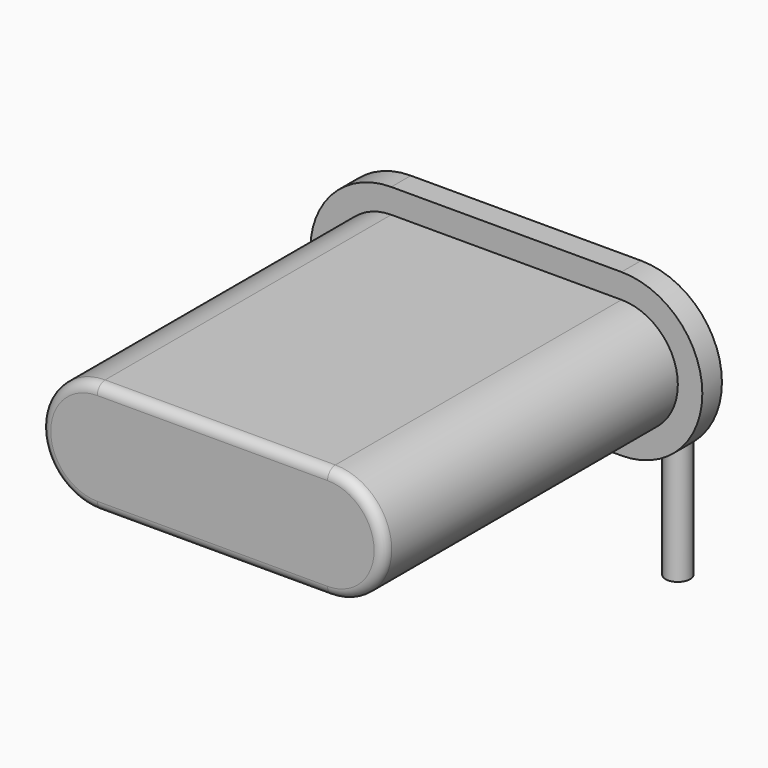
from build123d import *

# Parameters (mm, degrees)
PAD_DEPTH    = 0.5
PAD001_DEPTH = 8
FILLET_R     = 0.2
SKETCH_R     = 0.25
SKETCH002_R  = 0.25


with BuildPart() as pad:
    # Sketch004 → Pad (new body)
    with BuildSketch(Plane.XZ.offset(1.5)):
        with BuildLine():
            ThreePointArc((-0.45, 3.4), (-2.1, 1.75), (-0.45, 0.1))
            Line((-0.45, 0.1), (4.25, 0.1))
            ThreePointArc((4.25, 0.1), (5.9, 1.75), (4.25, 3.4))
            Line((-0.45, 3.4), (4.25, 3.4))
        make_face()
    extrude(amount=PAD_DEPTH)


with BuildPart() as fillet_body:
    # Sketch005 → Pad001 (new body)
    with BuildSketch(Plane.XZ.offset(1.5)):
        with BuildLine():
            ThreePointArc((-0.45, 2.9), (-1.6, 1.75), (-0.45, 0.6))
            Line((-0.45, 0.6), (4.25, 0.6))
            ThreePointArc((4.25, 0.6), (5.4, 1.75), (4.25, 2.9))
            Line((-0.45, 2.9), (4.25, 2.9))
        make_face()
    extrude(amount=PAD001_DEPTH)

    # Fillet
    fillet_edges = [fillet_body.edges().sort_by_distance(p)[0] for p in [
        (1.9, -9.5, 0.6),
        (-1.6, -9.5, 1.75),
        (1.9, -9.5, 2.9),
        (5.4, -9.5, 1.75),
    ]]
    fillet(fillet_edges, radius=FILLET_R)


with BuildPart() as sweep_body:
    # Sweep: sweep along a path in Sketch001
    with BuildLine(Plane.YZ) as sweep_path:
        Line((0, -3), (0, 1.375))
        ThreePointArc((0, 1.375), (-0.109835, 1.640165), (-0.375, 1.75))
        Line((-0.375, 1.75), (-2.25, 1.75))
    # Sketch → Sweep (sweep)
    with BuildSketch(Plane.XY.offset(0.1)):
        Circle(SKETCH_R)
    sweep(path=sweep_path.line)


with BuildPart() as sweep001:
    # Sweep001: sweep along a path in Sketch001
    with BuildLine(Plane.YZ) as sweep001_path:
        Line((0, -3), (0, 1.375))
        ThreePointArc((0, 1.375), (-0.109835, 1.640165), (-0.375, 1.75))
        Line((-0.375, 1.75), (-2.25, 1.75))
    # Sketch002 → Sweep001 (sweep)
    with BuildSketch(Plane.XY.offset(0.1)):
        with Locations((3.8, 0)):
            Circle(SKETCH002_R)
    sweep(path=sweep001_path.line)


solid = Compound([pad.part, fillet_body.part, sweep_body.part, sweep001.part])
